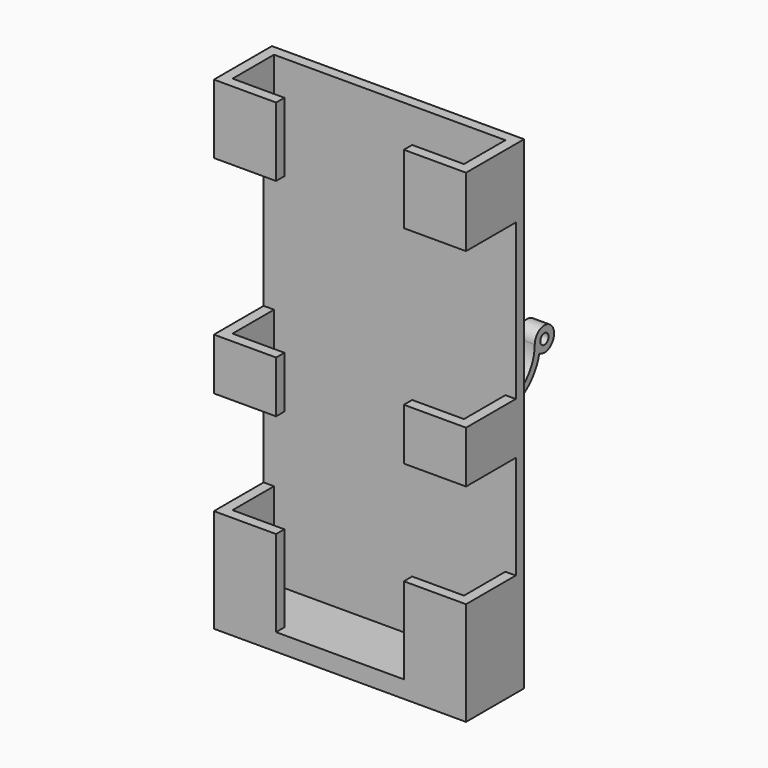
from build123d import *

# Parameters (mm, degrees)
F1_DEPTH       = 30
F2_W           = 73
F2_H           = 21
F3_DEPTH       = 5
F4_W           = 73
F4_H           = 110
F5_DEPTH       = 3
F9_DEPTH       = 15
F12_DEPTH      = 20
F13_W          = 20
F13_H          = 15
F14_DEPTH      = 15
F16_DEPTH      = 20
F17_R          = 1.5
F18_DEPTH      = 49.4
F19_W          = 10
F19_H          = 11
F20_DEPTH      = 10.001
F21_W          = 15
F21_H          = 12
F22_DEPTH      = 46.501
F24_DEPTH      = 10
F25_R          = 2.25
F26_DEPTH      = 10.55
F28_DEPTH      = 10
F28_DEPTH_BACK = 2


with BuildPart() as f1:
    # F0 (on Top) → F1 (new body)
    with BuildSketch(Plane.XY):
        Polygon((-36.5, -21), (-18.5, -21), (-18.5, -18), (-33.5, -18), (-33.5, -3), (33.5, -3), (33.5, -18), (18.5, -18), (18.5, -21), (36.5, -21), (36.5, 0), (-36.5, 0), align=None)
    extrude(amount=F1_DEPTH)

    # F2 (on Top) → F3 (join)
    with BuildSketch(Plane.XY):
        with Locations((0, -10.5)):
            Rectangle(F2_W, F2_H)
    extrude(amount=F3_DEPTH)

    # F4 (on Front) → F5 (join)
    with BuildSketch(Plane.XZ):
        with Locations((0, 85)):
            Rectangle(F4_W, F4_H)
    extrude(amount=F5_DEPTH)

    # F8 (on offset) → F9 (join)
    with BuildSketch(Plane.XY.offset(60)):
        Polygon((-18.5, -18), (-33.5, -18), (-33.5, -3), (-36.5, -3), (-36.5, -21), (-18.5, -21), align=None)
        Polygon((33.5, -18), (18.5, -18), (18.5, -21), (36.5, -21), (36.5, -3), (33.5, -3), align=None)
    extrude(amount=F9_DEPTH)

    # F11 (on offset) → F12 (join)
    with BuildSketch(Plane.XY.offset(140)):
        Polygon((-33.5, -18), (-33.5, -3), (-36.5, -3), (-36.5, -21), (-18.5, -21), (-18.5, -18), align=None)
        Polygon((36.5, -21), (36.5, -3), (33.5, -3), (33.5, -18), (18.5, -18), (18.5, -21), align=None)
    extrude(amount=-F12_DEPTH)

    # F13 (on offset) → F14 (join)
    with BuildSketch(Plane.XY.offset(60)):
        with Locations((0, 7.5)):
            Rectangle(F13_W, F13_H)
    extrude(amount=F14_DEPTH)

    # F15 (on face) → F16 (join)
    with BuildSketch(Plane.YZ.offset(10)):
        with BuildLine():
            ThreePointArc((37, 64), (26, 53), (15, 64))
            Line((15, 64), (13, 64))
            ThreePointArc((13, 64), (24.502876321, 51.0864946397), (38.6551724138, 61.0256746686))
            ThreePointArc((38.6551724138, 61.0256746686), (43.5583407717, 65.7019258868), (37, 64))
        make_face()
    extrude(amount=-F16_DEPTH)

    # F17 (on face) → F18 (cut)
    with BuildSketch(Plane.YZ.offset(10)):
        with Locations((40.5, 64)):
            Circle(F17_R)
    extrude(amount=-F18_DEPTH, mode=Mode.SUBTRACT)

    # F19 (on offset) → F20 (cut, through all)
    with BuildSketch(Plane.XZ.offset(-34)):
        with Locations((0, 65.5)):
            Rectangle(F19_W, F19_H)
    extrude(amount=-F20_DEPTH, mode=Mode.SUBTRACT)

    # F21 (on face) → F22 (cut, through all)
    with BuildSketch(Plane(origin=(-10, 0, 0), x_dir=(0, -1, 0), z_dir=(-1, 0, 0))):
        with Locations((-9.5, 70)):
            Rectangle(F21_W, F21_H)
    extrude(amount=-F22_DEPTH, mode=Mode.SUBTRACT)

    # F23 (on Right) → F24 (join, symmetric)
    with BuildSketch(Plane.YZ):
        Polygon((0, 56.2852394792), (0, 50.3416226459), (8.7014795803, 60), (3.3467229155, 60), align=None)
    extrude(amount=F24_DEPTH, both=True)

    # F25 (on offset) → F26 (cut, symmetric)
    with BuildSketch(Plane.XY.offset(60)):
        with Locations((0, 9)):
            Circle(F25_R)
    extrude(amount=F26_DEPTH, both=True, mode=Mode.SUBTRACT)

    # F27 (on face) → F28 (cut, two sides)
    with BuildSketch(Plane.XY.offset(60)) as f28_sk:
        Polygon((2.1650635095, 5.25), (4.3301270189, 9), (2.1650635095, 12.75), (-2.1650635095, 12.75), (-4.3301270189, 9), (-2.1650635095, 5.25), align=None)
    extrude(amount=-F28_DEPTH, mode=Mode.SUBTRACT)
    extrude(f28_sk.sketch, amount=F28_DEPTH_BACK, mode=Mode.SUBTRACT)


solid = f1.part
